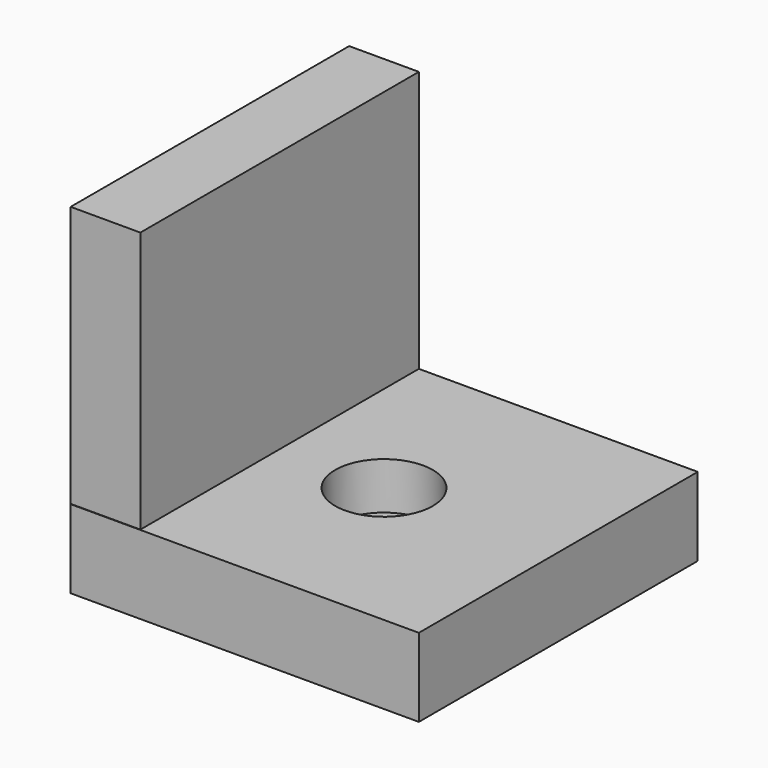
from build123d import *

# Parameters (mm, degrees)
SKETCH_W        = 20
SKETCH_H        = 20
PAD_DEPTH       = 4.5
SKETCH001_R     = 1.7
POCKET_DEPTH    = 5
SKETCH002_R     = 2.8
POCKET001_DEPTH = 2.7
SKETCH003_W     = 4
SKETCH003_H     = 19.972413
PAD001_DEPTH    = 15


with BuildPart() as part:
    # Sketch → Pad (new body)
    with BuildSketch(Plane.XY):
        Rectangle(SKETCH_W, SKETCH_H)
    extrude(amount=PAD_DEPTH)

    # Sketch001 (on Face6 of Pad) → Pocket (cut)
    with BuildSketch(Plane.XY.offset(4.5)):
        Circle(SKETCH001_R)
    extrude(amount=-POCKET_DEPTH, mode=Mode.SUBTRACT)

    # Sketch002 (on Face5 of Pocket) → Pocket001 (cut)
    with BuildSketch(Plane.XY.offset(4.5)):
        Circle(SKETCH002_R)
    extrude(amount=-POCKET001_DEPTH, mode=Mode.SUBTRACT)

    # Sketch003 (on Face5 of Pocket001) → Pad001 (join)
    with BuildSketch(Plane.XY.offset(4.5)):
        with Locations((-8, 0.013794)):
            Rectangle(SKETCH003_W, SKETCH003_H)
    extrude(amount=PAD001_DEPTH)


solid = part.part
